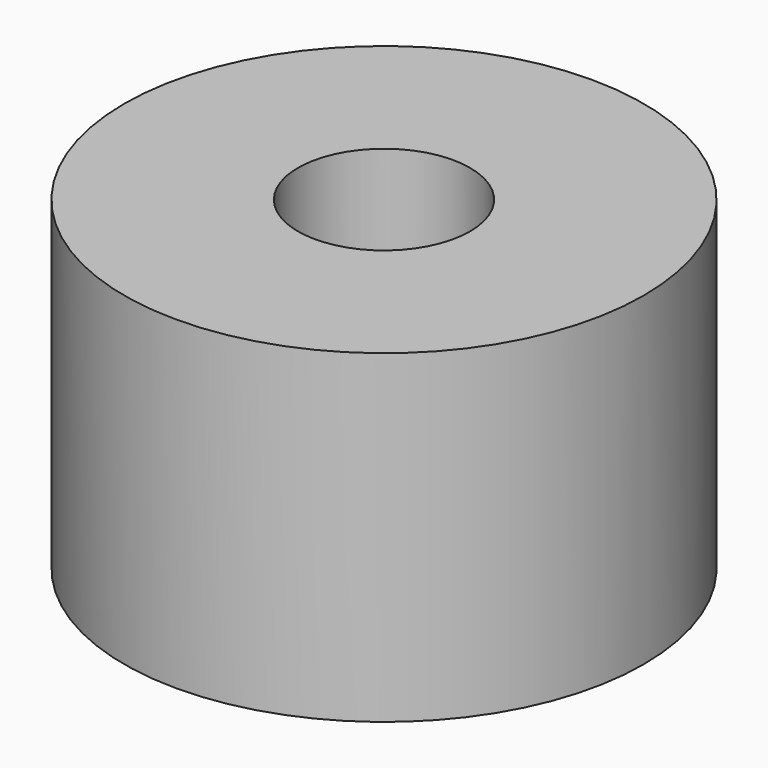
from build123d import *

# Parameters (mm, degrees)
CYLINDER1162_R     = 1
CYLINDER1162_DEPTH = 20
CYLINDER1164_R     = 1
CYLINDER1164_DEPTH = 20
CYLINDER1165_R     = 1
CYLINDER1165_DEPTH = 20
CYLINDER1158_R     = 1
CYLINDER1158_DEPTH = 20
TUBE104_R          = 8
TUBE104_R_2        = 2.65
TUBE104_DEPTH      = 10


with BuildPart() as obj1:
    # Cylinder1162 → Cylinder1162 (new body)
    with BuildSketch(Plane(origin=(4.25, -4.25, -88), x_dir=(0, 1, 0), z_dir=(0, 0, 1))):
        Circle(CYLINDER1162_R)
    extrude(amount=CYLINDER1162_DEPTH)


with BuildPart() as obj2:
    # Cylinder1164 → Cylinder1164 (new body)
    with BuildSketch(Plane(origin=(4.25, 4.25, -88), x_dir=(-1, 0, 0), z_dir=(0, 0, 1))):
        Circle(CYLINDER1164_R)
    extrude(amount=CYLINDER1164_DEPTH)


with BuildPart() as obj3:
    # Cylinder1165 → Cylinder1165 (new body)
    with BuildSketch(Plane(origin=(-4.25, 4.25, -88), x_dir=(0, -1, 0), z_dir=(0, 0, 1))):
        Circle(CYLINDER1165_R)
    extrude(amount=CYLINDER1165_DEPTH)


with BuildPart() as compound883:
    # Cylinder1158 → Cylinder1158 (new body)
    with BuildSketch(Plane(origin=(-4.25, -4.25, -88), x_dir=(1, 0, 0), z_dir=(0, 0, 1))):
        Circle(CYLINDER1158_R)
    extrude(amount=CYLINDER1158_DEPTH)

    # Compound883: union obj1, obj2, obj3
    add(obj1.part)
    add(obj2.part)
    add(obj3.part)


with BuildPart() as compound883_1:
    # Compound883 placement: moved
    add(compound883.part.moved(Location((0, 0, 91))))


with BuildPart() as cut434:
    # Tube104 → Tube104 (new body)
    with BuildSketch(Plane.XY.offset(19)):
        Circle(TUBE104_R)
        Circle(TUBE104_R_2, mode=Mode.SUBTRACT)
    extrude(amount=TUBE104_DEPTH)

    # Cut434: cut Compound883
    add(compound883_1.part, mode=Mode.SUBTRACT)


solid = cut434.part
